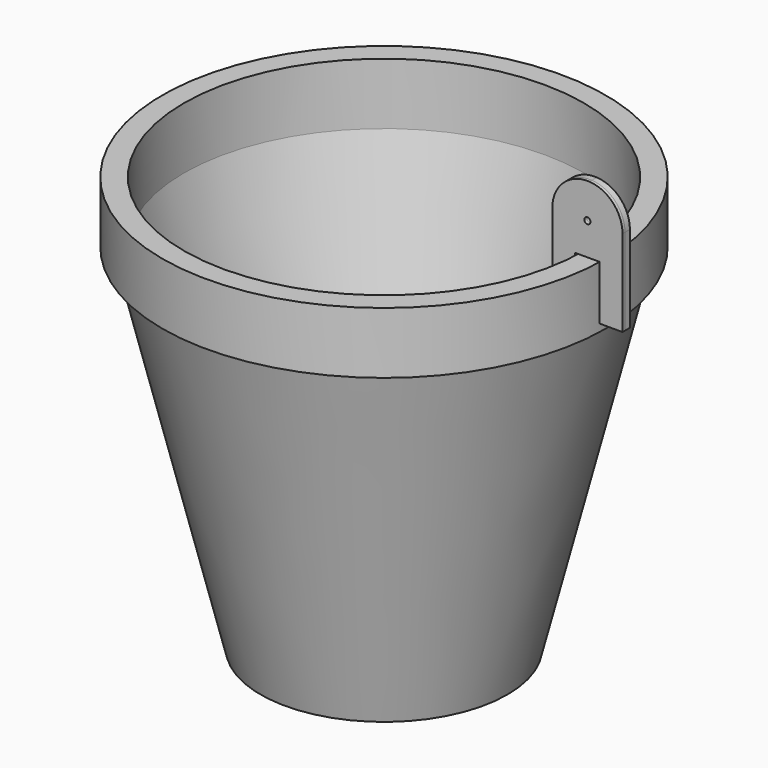
from build123d import *

# Parameters (mm, degrees)
F0_R     = 2
F2_DEPTH = 6
F3_DEPTH = 4


with BuildPart() as f1:
    # F0 (on Front) → F1 (revolve)
    with BuildSketch(Plane.XZ):
        Polygon((75, -478.359111), (0, -478.359111), (0, -485.359111), (80.273543, -485.359111), (137, -255.359111), (130, -255.359111), align=None)
        Polygon((130, -215.359111), (130, -255.359111), (137, -255.359111), (144, -255.359111), (144, -215.359111), align=None)
    revolve(axis=Axis((0, 0, -16.237866), (0, 0, -1)))


with BuildPart() as f2:
    # F0 (on Front) → F2 (new body)
    with BuildSketch(Plane.XZ):
        with BuildLine():
            Line((145, -214.359111), (145, -249.67373))
            Line((145, -249.67373), (159.807055, -249.67373))
            Line((159.807055, -249.67373), (159.807055, -193.39957))
            ThreePointArc((159.807055, -193.39957), (153.59278, -177.752161), (138.336383, -170.631701))
            ThreePointArc((138.336383, -170.631701), (131.568499, -171.248711), (125.282876, -173.832486))
            ThreePointArc((125.282876, -173.832486), (117.15819, -182.153934), (114.192945, -193.39957))
            Line((114.192945, -193.39957), (114.192945, -249.67373))
            Line((114.192945, -249.67373), (129, -249.67373))
            Line((129, -249.67373), (129, -214.359111))
            Line((129, -214.359111), (145, -214.359111))
        make_face()
        with Locations((137, -193.39957)):
            Circle(F0_R, mode=Mode.SUBTRACT)
    extrude(amount=F2_DEPTH)


with BuildPart() as f3:
    # F0 (on Front) → F3 (new body)
    with BuildSketch(Plane.XZ):
        with BuildLine():
            Line((145, -214.359111), (145, -249.67373))
            Line((145, -249.67373), (159.807055, -249.67373))
            Line((159.807055, -249.67373), (159.807055, -193.39957))
            ThreePointArc((159.807055, -193.39957), (153.59278, -177.752161), (138.336383, -170.631701))
            ThreePointArc((138.336383, -170.631701), (131.568499, -171.248711), (125.282876, -173.832486))
            ThreePointArc((125.282876, -173.832486), (117.15819, -182.153934), (114.192945, -193.39957))
            Line((114.192945, -193.39957), (114.192945, -249.67373))
            Line((114.192945, -249.67373), (129, -249.67373))
            Line((129, -249.67373), (129, -214.359111))
            Line((129, -214.359111), (145, -214.359111))
        make_face()
        with Locations((137, -193.39957)):
            Circle(F0_R, mode=Mode.SUBTRACT)
    extrude(amount=F3_DEPTH)


solid = Compound([f1.part, f2.part, f3.part])
